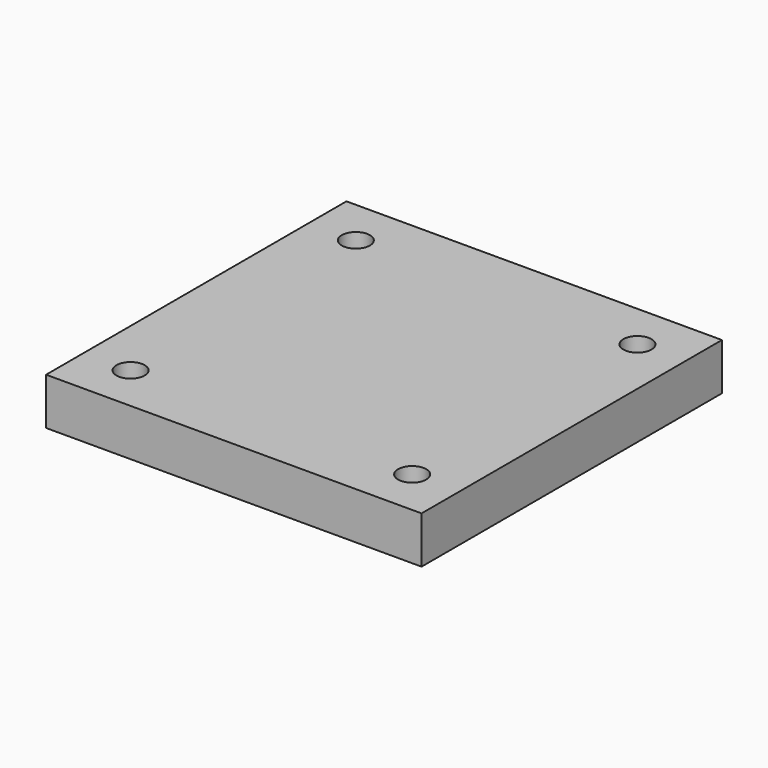
from build123d import *

# Parameters (mm, degrees)
SKETCH_W  = 80
SKETCH_H  = 80
SKETCH_R  = 3
PAD_DEPTH = 10


with BuildPart() as part:
    # Sketch → Pad (new body)
    with BuildSketch(Plane.XY):
        Rectangle(SKETCH_W, SKETCH_H)
        with Locations((-30, 30)):
            Circle(SKETCH_R, mode=Mode.SUBTRACT)
        with Locations((30, 30)):
            Circle(SKETCH_R, mode=Mode.SUBTRACT)
        with Locations((-30, -30)):
            Circle(SKETCH_R, mode=Mode.SUBTRACT)
        with Locations((30, -30)):
            Circle(SKETCH_R, mode=Mode.SUBTRACT)
    extrude(amount=PAD_DEPTH)


solid = part.part
